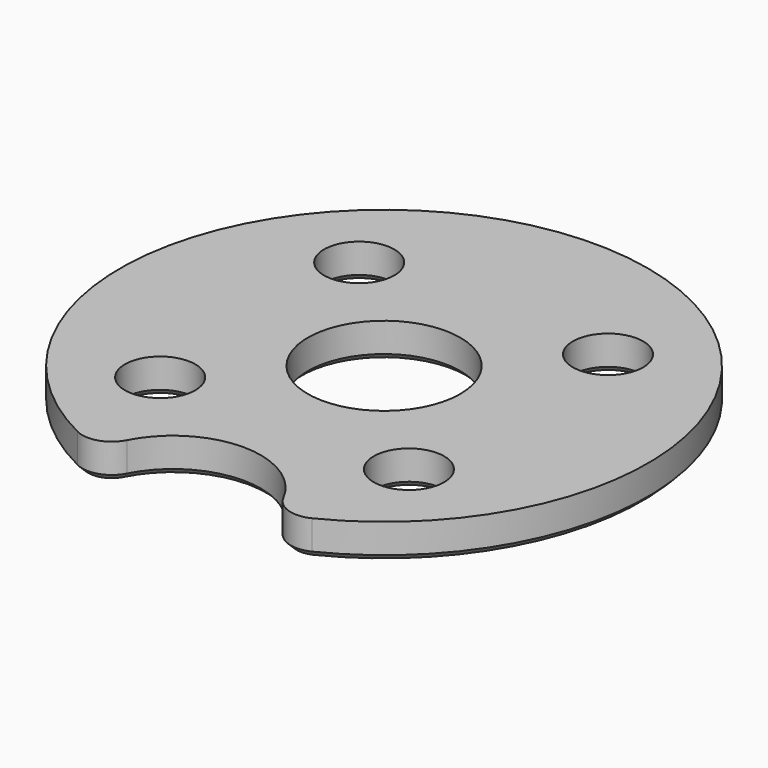
from build123d import *

# Parameters (mm, degrees)
F0_R     = 9
F0_R_2   = 1.2
F0_R_3   = 2.6
F2_R     = 3
F4_DEPTH = 1.201
F5_R     = 1
F6_SIZE  = 0.2


with BuildPart() as f3:
    # F3: sweep along a path in F1
    with BuildLine(Plane.XZ) as f3_path:
        Line((0, 0), (0, 1.2))
    # F0 (on Top) → F3 (sweep)
    with BuildSketch(Plane.XY):
        Circle(F0_R)
        with Locations((-4.2426406871, -4.2426406871)):
            Circle(F0_R_2, mode=Mode.SUBTRACT)
        with Locations((4.2426406871, -4.2426406871)):
            Circle(F0_R_2, mode=Mode.SUBTRACT)
        with Locations((-4.2426406871, 4.2426406871)):
            Circle(F0_R_2, mode=Mode.SUBTRACT)
        Circle(F0_R_3, mode=Mode.SUBTRACT)
        with Locations((4.2426406871, 4.2426406871)):
            Circle(F0_R_2, mode=Mode.SUBTRACT)
    sweep(path=f3_path.line)

    # F2 (on Top) → F4 (cut, through all)
    with BuildSketch(Plane.XY):
        with Locations((0, -9)):
            Circle(F2_R)
    extrude(amount=F4_DEPTH, mode=Mode.SUBTRACT)

    # F5
    f5_edges = [f3.edges().sort_by_distance(p)[0] for p in [
        (-2.95804, -8.5, 0.6),
        (2.95804, -8.5, 0.6),
    ]]
    fillet(f5_edges, radius=F5_R)

    # F6
    f6_edges = [f3.edges().sort_by_distance(p)[0] for p in [
        (0, 9, 0),
        (3.243317, -8.116813, 0),
        (-3.243317, -8.116813, 0),
        (0, -6, 0),
        (-5.442641, -4.242641, 0),
        (3.042641, -4.242641, 0),
        (-2.6, 0, 0),
        (-5.442641, 4.242641, 0),
        (3.042641, 4.242641, 0),
    ]]
    chamfer(f6_edges, length=F6_SIZE)


solid = f3.part
